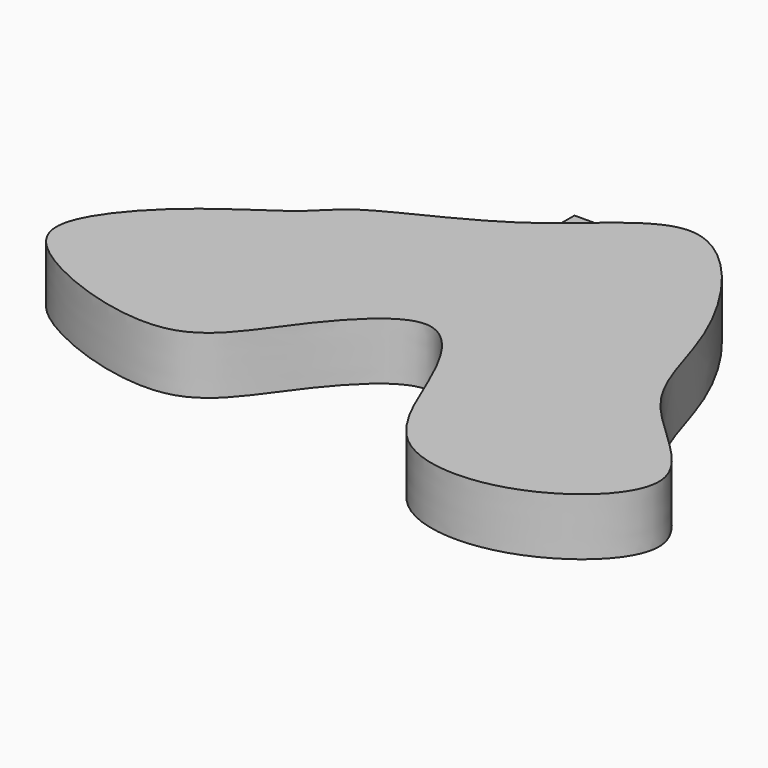
from build123d import *

# Parameters (mm, degrees)
F1_DEPTH = 4.826
F2_W     = 7.9530607909
F2_H     = 2.4159295135
F2_W_2   = 1.4705657959
F2_H_2   = 1.1854562908
F3_DEPTH = 13.4874


with BuildPart() as f1:
    # F0 (on Top) → F1 (new body)
    with BuildSketch(Plane.XY):
        with BuildLine():
            add(Edge.make_bspline(
                [(-28.5521708429, 2.4503727909), (-29.7873480709, 1.6200278804), (-31.0847997237, -0.2548569899), (-37.5382732789, -3.9275142691), (-43.5494642487, -10.7635585204), (-41.2128735185, -15.9349663798), (-26.6831151861, -21.1410941775), (-22.0924037847, -13.0453850296), (-14.7093600214, -4.9526078953), (-9.5699727576, -12.6475444653), (-6.6230443834, -23.2299939512), (5.2136582919, -23.4845156504), (14.6732626354, -14.610327484), (2.2139238505, -6.9986718896), (1.4748449812, 3.1761158333), (-9.0741240541, 17.9503094629), (-17.7200733891, 7.1549225991), (-26.351953663, 3.92946348), (-28.5521708429, 2.4503727909)],
                knots=[0, 0, 0, 0, 0.0399231012, 0.0963740918, 0.1563754264, 0.2002731415, 0.2754689136, 0.3363486397, 0.3971101889, 0.451271502, 0.5179209305, 0.583896873, 0.6468569967, 0.7150291539, 0.784131713, 0.8609315593, 0.9288851097, 1, 1, 1, 1], degree=3))
        make_face()
    extrude(amount=F1_DEPTH)

    # F2 (on Front) → F3 (join)
    with BuildSketch(Plane.XZ):
        with Locations((-15.15518222, 1.7624348111)):
            Rectangle(F2_W, F2_H)
        with Locations((-12.1240150183, 2.2876369767)):
            Rectangle(F2_W_2, F2_H_2, mode=Mode.SUBTRACT)
    extrude(amount=-F3_DEPTH)


solid = f1.part
